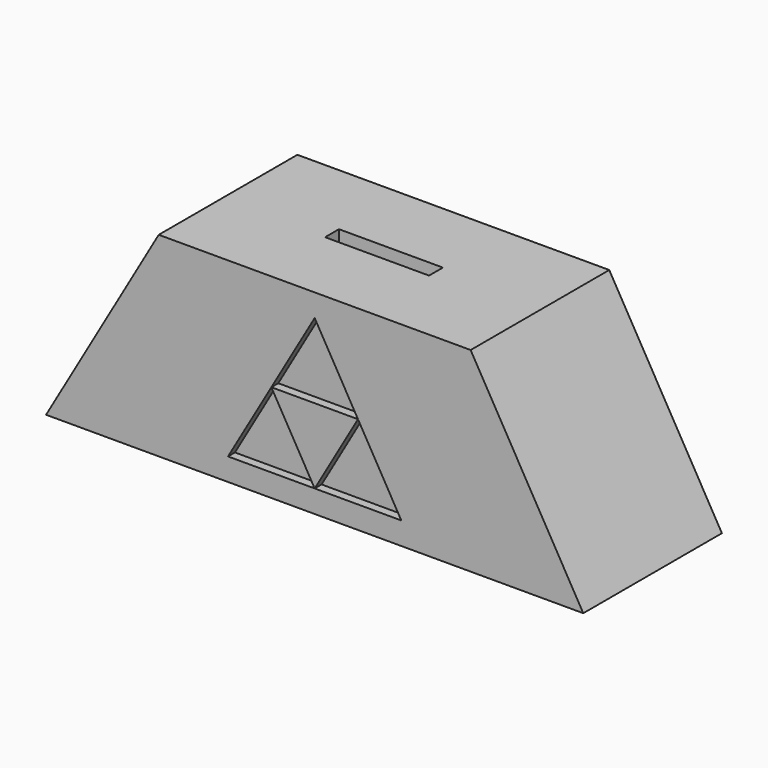
from build123d import *

# Parameters (mm, degrees)
F1_DEPTH = 12.7
F3_DEPTH = 1.27
F4_DEPTH = 1.27
F5_W     = 15.24
F5_H     = 2.54
F6_DEPTH = 19.05


with BuildPart() as f1:
    # F0 (on Front) → F1 (new body, symmetric)
    with BuildSketch(Plane.XZ):
        Polygon((-22.86, 14.2980794165), (-31.115, 0), (0, 0), (0, 14.2980794165), align=None)
        Polygon((0, 14.2980794165), (0, 0), (31.115, 0), (22.86, 14.2980794165), align=None)
        Polygon((0, 0), (0, -14.2980794165), (39.37, -14.2980794165), (31.115, 0), align=None)
        Polygon((-31.115, 0), (-39.37, -14.2980794165), (0, -14.2980794165), (0, 0), align=None)
    extrude(amount=F1_DEPTH, both=True)

    # F2 (on face) → F3 (cut)
    with BuildSketch(Plane.XZ.offset(12.7)):
        with BuildLine():
            Line((0, -11.0009658396), (-0.00127, -10.9987661351))
            ThreePointArc((-0.00127, -10.9987661351), (-0.0021997045, -10.9996958396), (-0.00254, -11.0009658396))
            Line((-0.00254, -11.0009658396), (0, -11.0009658396))
        make_face()
        with BuildLine():
            ThreePointArc((-6.34873, -0.0046429161), (-6.35, -0.0049832116), (-6.35127, -0.0046429161))
            Line((-6.35127, -0.0046429161), (-12.7, -11.0009658396))
            Line((-12.7, -11.0009658396), (-0.00254, -11.0009658396))
            ThreePointArc((-0.00254, -11.0009658396), (-0.0021997045, -10.9996958396), (-0.00127, -10.9987661351))
            Line((-0.00127, -10.9987661351), (-6.34873, -0.0046429161))
        make_face()
        with BuildLine():
            Line((-6.34873, -0.0046429161), (-6.35, -0.0024432116))
            Line((-6.35, -0.0024432116), (-6.35127, -0.0046429161))
            ThreePointArc((-6.35127, -0.0046429161), (-6.35, -0.0049832116), (-6.34873, -0.0046429161))
        make_face()
    extrude(amount=-F3_DEPTH, mode=Mode.SUBTRACT)

    # F2 (on face) → F4 (cut)
    with BuildSketch(Plane.XZ.offset(12.7)):
        with BuildLine():
            Line((6.34873, -0.0002435071), (0, 10.9960794165))
            Line((0, 10.9960794165), (-6.34873, -0.0002435071))
            ThreePointArc((-6.34873, -0.0002435071), (-6.3478002955, -0.0011732116), (-6.34746, -0.0024432116))
            Line((-6.34746, -0.0024432116), (6.34746, -0.0024432116))
            ThreePointArc((6.34746, -0.0024432116), (6.3478002955, -0.0011732116), (6.34873, -0.0002435071))
        make_face()
        with BuildLine():
            ThreePointArc((-6.34873, -0.0046429161), (-6.35, -0.0049832116), (-6.35127, -0.0046429161))
            Line((-6.35127, -0.0046429161), (-12.7, -11.0009658396))
            Line((-12.7, -11.0009658396), (-0.00254, -11.0009658396))
            ThreePointArc((-0.00254, -11.0009658396), (-0.0021997045, -10.9996958396), (-0.00127, -10.9987661351))
            Line((-0.00127, -10.9987661351), (-6.34873, -0.0046429161))
        make_face()
        with BuildLine():
            Line((12.7, -11.0009658396), (6.35127, -0.0046429161))
            ThreePointArc((6.35127, -0.0046429161), (6.35, -0.0049832116), (6.34873, -0.0046429161))
            Line((6.34873, -0.0046429161), (0.00127, -10.9987661351))
            ThreePointArc((0.00127, -10.9987661351), (0.0021997045, -10.9996958396), (0.00254, -11.0009658396))
            Line((0.00254, -11.0009658396), (12.7, -11.0009658396))
        make_face()
        with BuildLine():
            Line((-6.34873, -0.0046429161), (-6.35, -0.0024432116))
            Line((-6.35, -0.0024432116), (-6.35127, -0.0046429161))
            ThreePointArc((-6.35127, -0.0046429161), (-6.35, -0.0049832116), (-6.34873, -0.0046429161))
        make_face()
        with BuildLine():
            Line((-6.34746, -0.0024432116), (-6.35, -0.0024432116))
            Line((-6.35, -0.0024432116), (-6.34873, -0.0046429161))
            ThreePointArc((-6.34873, -0.0046429161), (-6.3478002955, -0.0037132116), (-6.34746, -0.0024432116))
        make_face()
        with BuildLine():
            ThreePointArc((-6.34746, -0.0024432116), (-6.3478002955, -0.0011732116), (-6.34873, -0.0002435071))
            Line((-6.34873, -0.0002435071), (-6.35, -0.0024432116))
            Line((-6.35, -0.0024432116), (-6.34746, -0.0024432116))
        make_face()
        with BuildLine():
            Line((6.35, -0.0024432116), (6.34873, -0.0002435071))
            ThreePointArc((6.34873, -0.0002435071), (6.3478002955, -0.0011732116), (6.34746, -0.0024432116))
            Line((6.34746, -0.0024432116), (6.35, -0.0024432116))
        make_face()
        with BuildLine():
            Line((6.34873, -0.0046429161), (6.35, -0.0024432116))
            Line((6.35, -0.0024432116), (6.34746, -0.0024432116))
            ThreePointArc((6.34746, -0.0024432116), (6.3478002955, -0.0037132116), (6.34873, -0.0046429161))
        make_face()
        with BuildLine():
            Line((6.35127, -0.0046429161), (6.35, -0.0024432116))
            Line((6.35, -0.0024432116), (6.34873, -0.0046429161))
            ThreePointArc((6.34873, -0.0046429161), (6.35, -0.0049832116), (6.35127, -0.0046429161))
        make_face()
        with BuildLine():
            Line((0, -11.0009658396), (-0.00127, -10.9987661351))
            ThreePointArc((-0.00127, -10.9987661351), (-0.0021997045, -10.9996958396), (-0.00254, -11.0009658396))
            Line((-0.00254, -11.0009658396), (0, -11.0009658396))
        make_face()
        with BuildLine():
            ThreePointArc((0.00127, -10.9987661351), (0, -10.9984258396), (-0.00127, -10.9987661351))
            Line((-0.00127, -10.9987661351), (0, -11.0009658396))
            Line((0, -11.0009658396), (0.00127, -10.9987661351))
        make_face()
        with BuildLine():
            ThreePointArc((0.00254, -11.0009658396), (0.0021997045, -10.9996958396), (0.00127, -10.9987661351))
            Line((0.00127, -10.9987661351), (0, -11.0009658396))
            Line((0, -11.0009658396), (0.00254, -11.0009658396))
        make_face()
    extrude(amount=-F4_DEPTH, mode=Mode.SUBTRACT)

    # F5 (on face) → F6 (cut)
    with BuildSketch(Plane.XY.offset(14.2980794165)):
        Rectangle(F5_W, F5_H)
    extrude(amount=-F6_DEPTH, mode=Mode.SUBTRACT)


solid = f1.part
